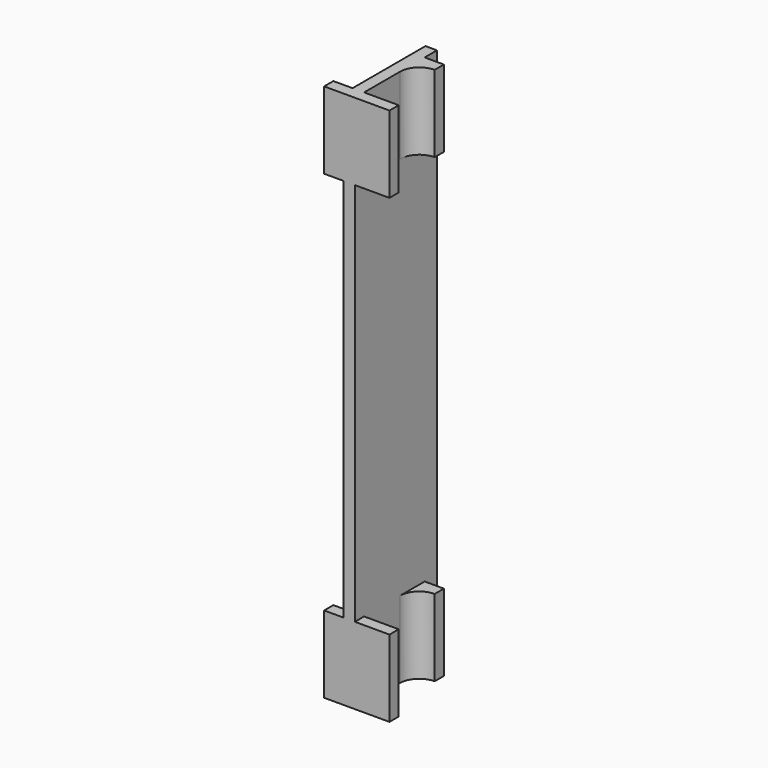
from build123d import *

# Parameters (mm, degrees)
F1_DEPTH = 140
F2_W     = 5
F2_H     = 100
F2_W_2   = 9
F3_DEPTH = 25


with BuildPart() as f1:
    # F0 (on Top) → F1 (new body)
    with BuildSketch(Plane.XY):
        with BuildLine():
            Line((-5, 0), (0, 0))
            Line((0, 0), (12, 0))
            Line((12, 0), (12, 3))
            Line((12, 3), (3, 3))
            Line((3, 3), (3, 14.7))
            ThreePointArc((3, 14.7), (4.464466, 18.235534), (8, 19.7))
            Line((8, 19.7), (8, 22.7))
            Line((8, 22.7), (3, 22.7))
            Line((3, 22.7), (3, 26.7))
            Line((3, 26.7), (0, 26.7))
            Line((0, 26.7), (0, 3))
            Line((0, 3), (-5, 3))
            Line((-5, 3), (-5, 0))
        make_face()
    extrude(amount=F1_DEPTH)

    # F2 (on Front) → F3 (cut)
    with BuildSketch(Plane.XZ):
        with Locations((-2.5, 70)):
            Rectangle(F2_W, F2_H)
        with Locations((7.5, 70)):
            Rectangle(F2_W_2, F2_H)
    extrude(amount=-F3_DEPTH, mode=Mode.SUBTRACT)


solid = f1.part
